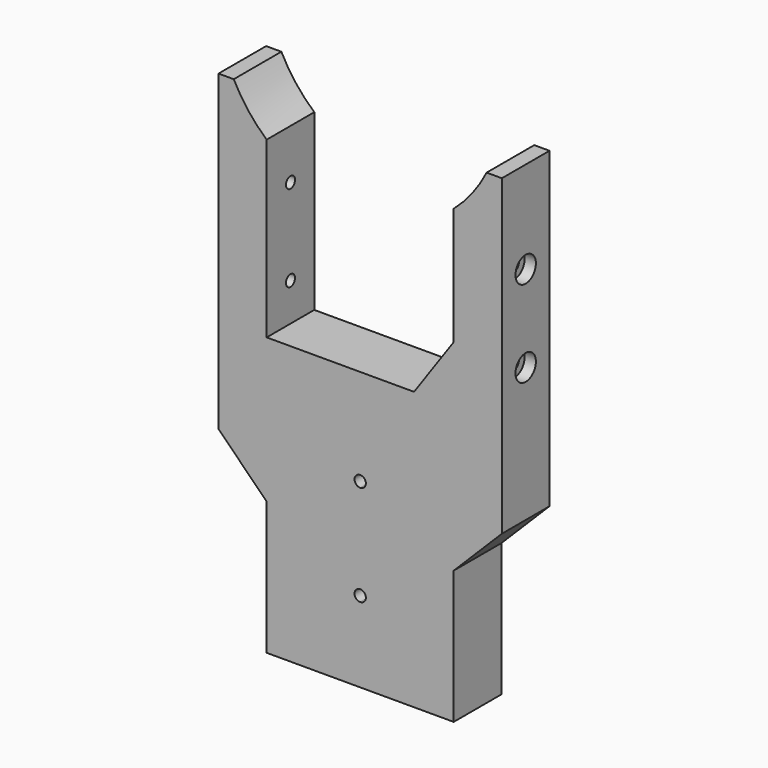
from build123d import *

# Parameters (mm, degrees)
F1_DEPTH  = 21
F2_R      = 2
F3_DEPTH  = 50
F4_R      = 4.5
F5_DEPTH  = 4
F6_R      = 4.5
F7_DEPTH  = 4
F8_R      = 2
F9_DEPTH  = 15
F11_DEPTH = 12


with BuildPart() as f1:
    # F0 (on Front) → F1 (new body)
    with BuildSketch(Plane.XZ):
        with BuildLine():
            ThreePointArc((44.619485, -22.56328), (39.527789, -30.619502), (33, -37.56328))
            Line((33, -37.56328), (33, -79))
            Line((33, -79), (18.995849, -99))
            Line((18.995849, -99), (0, -99))
            Line((0, -99), (-33, -99))
            Line((-33, -99), (-33, -37.56328))
            ThreePointArc((-33, -37.56328), (-39.527789, -30.619502), (-44.619485, -22.56328))
            Line((-44.619485, -22.56328), (-50, -22.56328))
            Line((-50, -22.56328), (-50, -133))
            Line((-50, -133), (-33, -150))
            Line((-33, -150), (-33, -180))
            Line((-33, -180), (-33, -197))
            Line((-33, -197), (0, -197))
            Line((0, -197), (33, -197))
            Line((33, -197), (33, -180))
            Line((33, -180), (33, -150))
            Line((33, -150), (50, -133))
            Line((50, -133), (50, -22.56328))
            Line((50, -22.56328), (44.619485, -22.56328))
        make_face()
    extrude(amount=F1_DEPTH)

    # F2 (on Right) → F3 (cut, symmetric)
    with BuildSketch(Plane.YZ):
        with Locations((-10.5, -55.10355)):
            Circle(F2_R)
        with Locations((-10.5, -85.60355)):
            Circle(F2_R)
    extrude(amount=F3_DEPTH, both=True, mode=Mode.SUBTRACT)

    # F4 (on face) → F5 (cut)
    with BuildSketch(Plane(origin=(-50, 0, 0), x_dir=(0, -1, 0), z_dir=(-1, 0, 0))):
        with Locations((10.5, -55.10355)):
            Circle(F4_R)
        with Locations((10.5, -85.60355)):
            Circle(F4_R)
    extrude(amount=-F5_DEPTH, mode=Mode.SUBTRACT)

    # F6 (on face) → F7 (cut)
    with BuildSketch(Plane.YZ.offset(50)):
        with Locations((-10.5, -55.10355)):
            Circle(F6_R)
        with Locations((-10.5, -85.60355)):
            Circle(F6_R)
    extrude(amount=-F7_DEPTH, mode=Mode.SUBTRACT)

    # F8 (on face) → F9 (cut)
    with BuildSketch(Plane(origin=(0, 0, -197), x_dir=(1, 0, 0), z_dir=(0, 0, -1))):
        with BuildLine():
            ThreePointArc((-23, 10.5), (-21, 8.5), (-19, 10.5))
            ThreePointArc((-19, 10.5), (-21, 12.5), (-23, 10.5))
        make_face()
        with Locations((21, 10.5)):
            Circle(F8_R)
    extrude(amount=-F9_DEPTH, mode=Mode.SUBTRACT)

    # F10 (on face) → F11 (cut)
    with BuildSketch(Plane.XZ.offset(21)):
        with BuildLine():
            ThreePointArc((0, -166.5), (-2, -168.5), (0, -170.5))
            Line((0, -170.5), (0, -166.5))
        make_face()
        with BuildLine():
            ThreePointArc((0, -131), (-2, -133), (0, -135))
            Line((0, -135), (0, -131))
        make_face()
        with BuildLine():
            Line((0, -131), (0, -135))
            ThreePointArc((0, -135), (1.414214, -134.414214), (2, -133))
            ThreePointArc((2, -133), (1.414214, -131.585786), (0, -131))
        make_face()
        with BuildLine():
            Line((0, -166.5), (0, -170.5))
            ThreePointArc((0, -170.5), (1.414214, -169.914214), (2, -168.5))
            ThreePointArc((2, -168.5), (1.414214, -167.085786), (0, -166.5))
        make_face()
    extrude(amount=-F11_DEPTH, mode=Mode.SUBTRACT)


solid = f1.part
